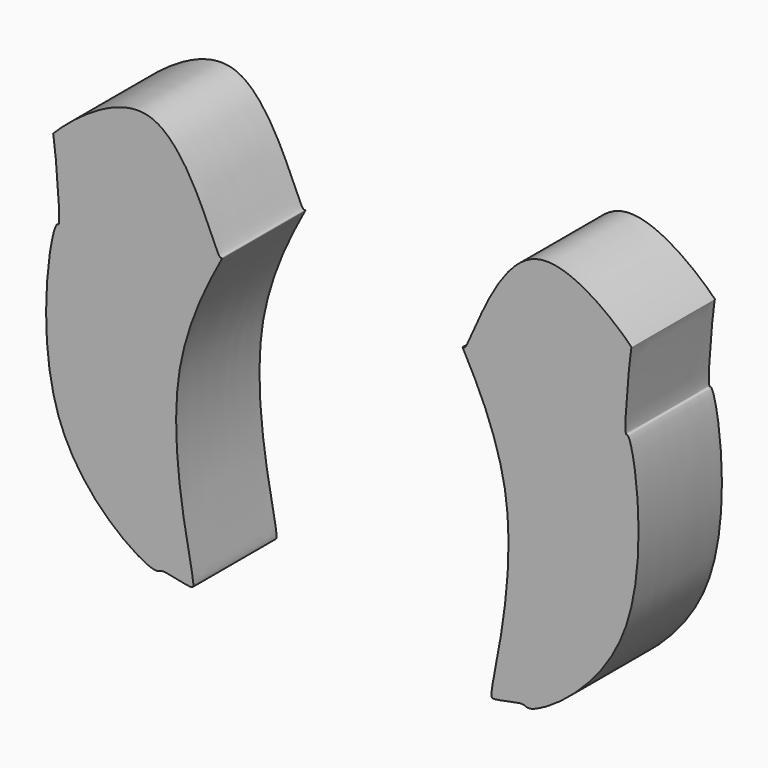
from build123d import *

# Parameters (mm, degrees)
F1_DEPTH = 25


with BuildPart() as f1:
    # F0 (on Front) → F1 (new body)
    with BuildSketch(Plane.XZ):
        with BuildLine():
            add(Edge.make_bspline(
                [(-44.8540709913, -43.9254119992), (-44.1259482178, -43.9811524671), (-43.6128007916, -42.8294892962), (-36.0291494785, -45.2419967596), (-35.123895237, -42.8938182579), (-46.8015182884, -0.5121108289), (-27.6432319174, 28.4107326348), (-30.3507361501, 25.903738844), (-41.7258683385, 67.8920920911), (-69.7368023698, 40.1398445547), (-69.1482706654, 40.4992325669), (-67.2768848884, 20.611611249), (-69.6063094576, 22.7965915994), (-77.4771594838, -25.3898354881), (-48.0298239965, -43.6822964632), (-44.8540709913, -43.9254119992)],
                knots=[0, 0, 0, 0, 0.0286382658, 0.0863828665, 0.1091580947, 0.2541087297, 0.3720938492, 0.3854323469, 0.5049795024, 0.6153164265, 0.6247481923, 0.7191810075, 0.733284787, 0.8750924132, 1, 1, 1, 1], degree=3))
        make_face()
    extrude(amount=F1_DEPTH)


with BuildPart() as f2_1:
    # F2: instance of F1
    add(f1.part.mirror(Plane.YZ))


solid = Compound([f1.part, f2_1.part])
